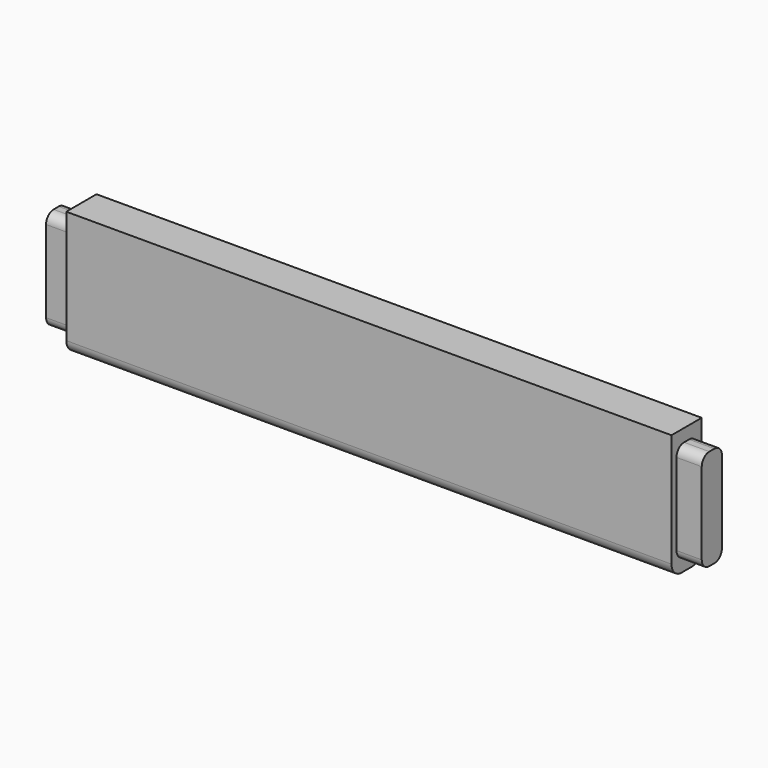
from build123d import *

# Parameters (mm, degrees)
F0_W     = 304.8
F0_H     = 63.5
F1_DEPTH = 19.05
F3_DEPTH = 12.7
F5_DEPTH = 12.7
F6_R     = 6.35


with BuildPart() as f1:
    # F0 (on Front) → F1 (new body)
    with BuildSketch(Plane.XZ):
        with Locations((88.229522, -0.451185)):
            Rectangle(F0_W, F0_H)
    extrude(amount=-F1_DEPTH)

    # F2 (on face) → F3 (join)
    with BuildSketch(Plane.YZ.offset(240.629522)):
        with BuildLine():
            Line((11.1252, 24.948815), (7.9248, 24.948815))
            ThreePointArc((7.9248, 24.948815), (4.566184, 23.557631), (3.175, 20.199015))
            Line((3.175, 20.199015), (3.175, -21.101385))
            ThreePointArc((3.175, -21.101385), (4.566184, -24.460001), (7.9248, -25.851185))
            Line((7.9248, -25.851185), (11.1252, -25.851185))
            ThreePointArc((11.1252, -25.851185), (14.483816, -24.460001), (15.875, -21.101385))
            Line((15.875, -21.101385), (15.875, 20.199015))
            ThreePointArc((15.875, 20.199015), (14.483816, 23.557631), (11.1252, 24.948815))
        make_face()
    extrude(amount=F3_DEPTH)

    # F4 (on face) → F5 (join)
    with BuildSketch(Plane(origin=(-64.170478, 0, 0), x_dir=(0, -1, 0), z_dir=(-1, 0, 0))):
        with BuildLine():
            Line((-7.9248, 24.948815), (-11.1252, 24.948815))
            ThreePointArc((-11.1252, 24.948815), (-14.483816, 23.557631), (-15.875, 20.199015))
            Line((-15.875, 20.199015), (-15.875, -21.101385))
            ThreePointArc((-15.875, -21.101385), (-14.483816, -24.460001), (-11.1252, -25.851185))
            Line((-11.1252, -25.851185), (-7.9248, -25.851185))
            ThreePointArc((-7.9248, -25.851185), (-4.566184, -24.460001), (-3.175, -21.101385))
            Line((-3.175, -21.101385), (-3.175, 20.199015))
            ThreePointArc((-3.175, 20.199015), (-4.566184, 23.557631), (-7.9248, 24.948815))
        make_face()
    extrude(amount=F5_DEPTH)

    # F6
    f6_edges = [f1.edges().sort_by_distance(p)[0] for p in [
        (88.229522, 0, -32.201185),
        (88.229522, 19.05, -32.201185),
    ]]
    fillet(f6_edges, radius=F6_R)


solid = f1.part
